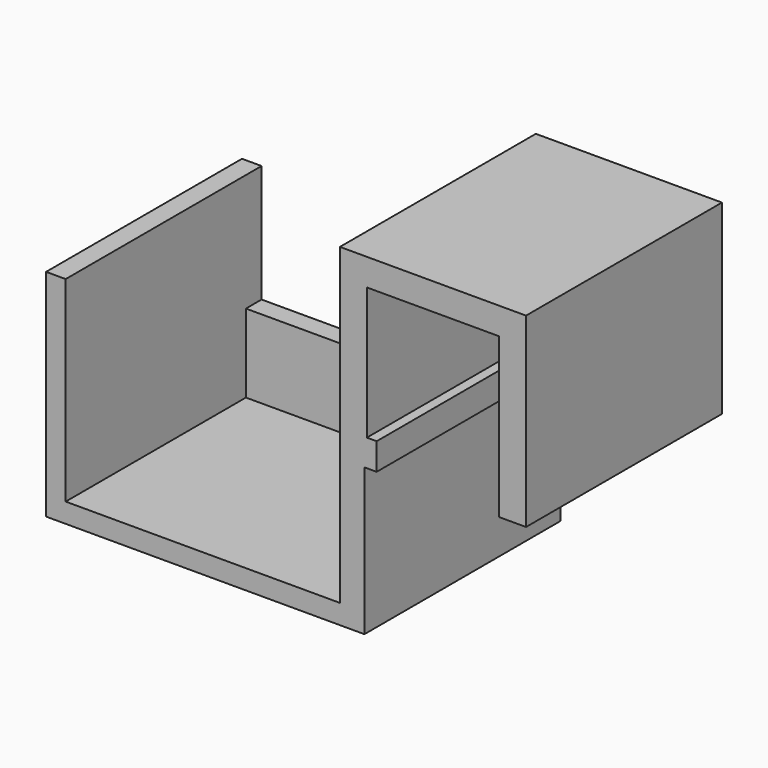
from build123d import *

# Parameters (mm, degrees)
F1_DEPTH = 12.5
F2_W     = 25
F2_H     = 34
F3_DEPTH = 2.5
F4_W     = 25
F4_H     = 2
F5_DEPTH = 30
F6_W     = 2
F6_H     = 25
F7_DEPTH = 20
F8_W     = 32.5
F8_H     = 10
F9_DEPTH = 2


with BuildPart() as f1:
    # F0 (on Front) → F1 (new body, symmetric)
    with BuildSketch(Plane.XZ):
        Polygon((9.5, -9.5), (9.5, 9.5), (-9.5, 9.5), (-9.5, -9.5), (-5.75, -9.5), (-5.75, -6.75), (-6.75, -6.75), (-6.75, 6.75), (6.75, 6.75), (6.75, -6.75), (6.75, -9.5), align=None)
    extrude(amount=F1_DEPTH, both=True)

    # F2 (on face) → F3 (join)
    with BuildSketch(Plane(origin=(-9.5, 0, 0), x_dir=(0, -1, 0), z_dir=(-1, 0, 0))):
        with Locations((0, -7.5)):
            Rectangle(F2_W, F2_H)
    extrude(amount=-F3_DEPTH)

    # F4 (on face) → F5 (join)
    with BuildSketch(Plane(origin=(-9.5, 0, 0), x_dir=(0, -1, 0), z_dir=(-1, 0, 0))):
        with Locations((0, -23.5)):
            Rectangle(F4_W, F4_H)
    extrude(amount=F5_DEPTH)

    # F6 (on face) → F7 (join)
    with BuildSketch(Plane.XY.offset(-22.5)):
        with Locations((-38.5, 0)):
            Rectangle(F6_W, F6_H)
    extrude(amount=F7_DEPTH)

    # F8 (on face) → F9 (join)
    with BuildSketch(Plane(origin=(0, 12.5, 0), x_dir=(-1, 0, 0), z_dir=(0, 1, 0))):
        with Locations((23.25, -19.5)):
            Rectangle(F8_W, F8_H)
    extrude(amount=-F9_DEPTH)


solid = f1.part
